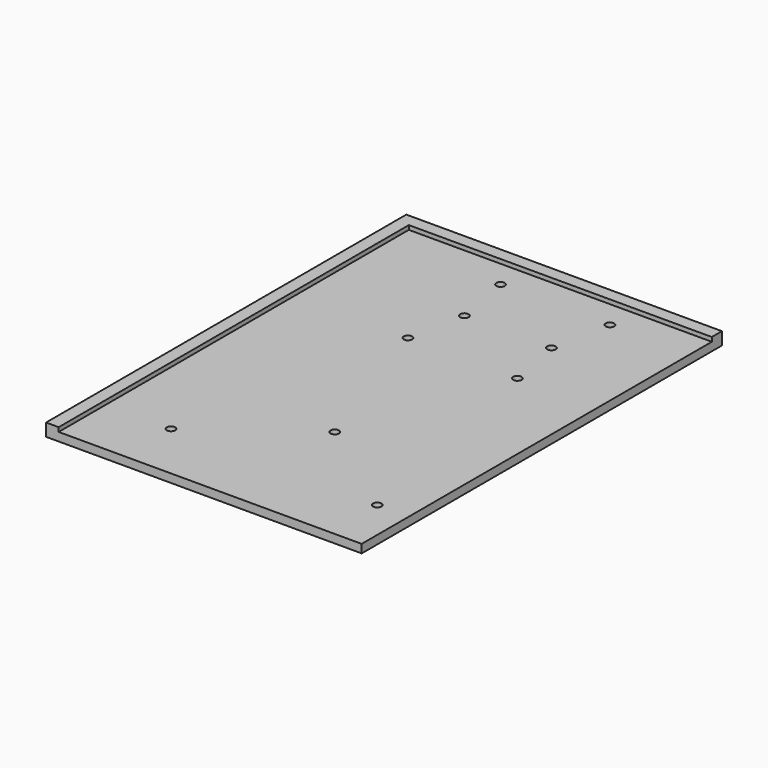
from build123d import *

# Parameters (mm, degrees)
F0_W     = 114.3
F0_H     = 165.1
F0_R     = 1.5875
F1_DEPTH = 3.175
F2_DEPTH = 1.5875


with BuildPart() as f1:
    # F0 (on Top) → F1 (new body)
    with BuildSketch(Plane.XY):
        with Locations((-11.107412, -3.511809)):
            Rectangle(F0_W, F0_H)
        with Locations((-43.670212, -63.836809)):
            Circle(F0_R, mode=Mode.SUBTRACT)
        with Locations((34.155388, -63.836809)):
            Circle(F0_R, mode=Mode.SUBTRACT)
        with Locations((-4.757412, -35.261809)):
            Circle(F0_R, mode=Mode.SUBTRACT)
        with Locations((-25.394912, 25.060651)):
            Circle(F0_R, mode=Mode.SUBTRACT)
        with Locations((-21.250462, 46.493171)):
            Circle(F0_R, mode=Mode.SUBTRACT)
        with Locations((-25.394912, 68.718171)):
            Circle(F0_R, mode=Mode.SUBTRACT)
        with Locations((15.880088, 25.060651)):
            Circle(F0_R, mode=Mode.SUBTRACT)
        with Locations((11.585386, 46.493171)):
            Circle(F0_R, mode=Mode.SUBTRACT)
        with Locations((15.880088, 68.718171)):
            Circle(F0_R, mode=Mode.SUBTRACT)
        Polygon((-68.257412, -86.061809), (-68.257412, 79.038191), (46.042588, 79.038191), (46.042588, 83.813391), (-73.019912, 83.813391), (-73.019912, -86.061809), align=None)
    extrude(amount=-F1_DEPTH)

    # F0 (on Top) → F2 (join)
    with BuildSketch(Plane.XY):
        Polygon((-68.257412, -86.061809), (-68.257412, 79.038191), (46.042588, 79.038191), (46.042588, 83.813391), (-73.019912, 83.813391), (-73.019912, -86.061809), align=None)
    extrude(amount=F2_DEPTH)


solid = f1.part
